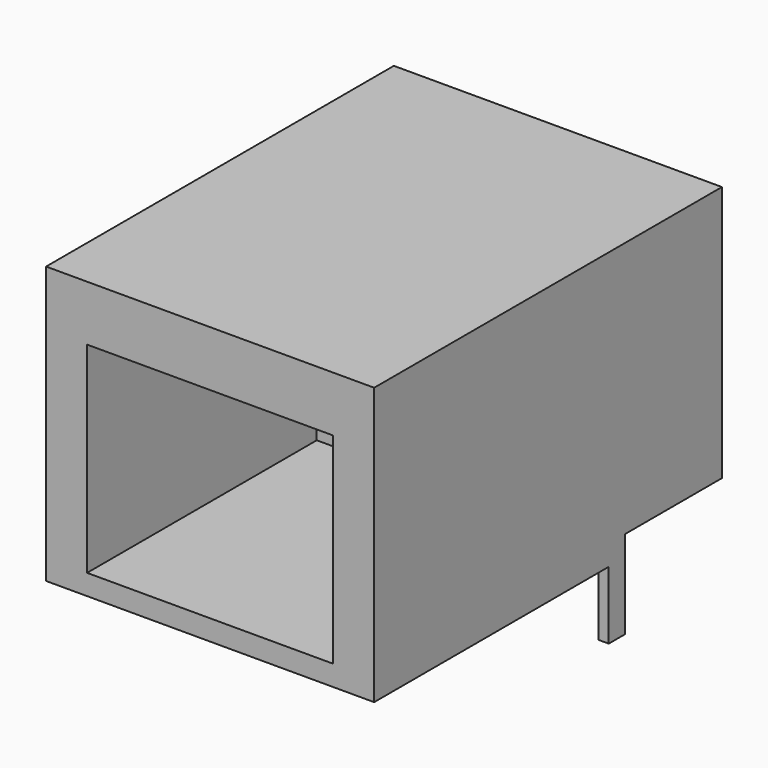
from build123d import *

# Parameters (mm, degrees)
F0_W     = 16
F0_H     = 21.2
F1_DEPTH = 13.5
F2_W     = 5.9
F2_H     = 1
F3_DEPTH = 16
F4_W     = 12
F4_H     = 9.8
F5_DEPTH = 14
F6_W     = 0.5
F6_H     = 1
F7_DEPTH = 3.3


with BuildPart() as f1:
    # F0 (on Top) → F1 (new body)
    with BuildSketch(Plane.XY):
        with Locations((8, 10.6)):
            Rectangle(F0_W, F0_H)
    extrude(amount=F1_DEPTH)

    # F2 (on face) → F3 (cut, through all)
    with BuildSketch(Plane.YZ.offset(16)):
        with Locations((18.25, 0.5)):
            Rectangle(F2_W, F2_H)
    extrude(amount=-F3_DEPTH, mode=Mode.SUBTRACT)

    # F4 (on face) → F5 (cut)
    with BuildSketch(Plane.XZ):
        with Locations((8, 5.9)):
            Rectangle(F4_W, F4_H)
    extrude(amount=-F5_DEPTH, mode=Mode.SUBTRACT)

    # F6 (on face) → F7 (join)
    with BuildSketch(Plane(origin=(0, 0, 0), x_dir=(1, 0, 0), z_dir=(0, 0, -1))):
        with Locations((0.25, -14.8)):
            Rectangle(F6_W, F6_H)
        with Locations((15.75, -14.8)):
            Rectangle(F6_W, F6_H)
    extrude(amount=F7_DEPTH)


solid = f1.part
